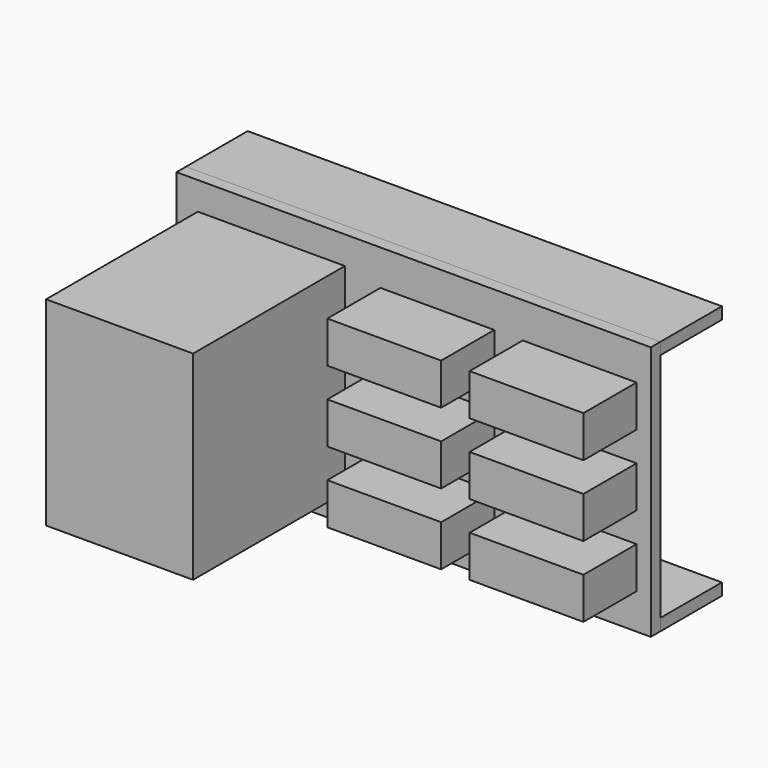
from build123d import *

# Parameters (mm, degrees)
F1_W     = 400
F1_H     = 10
F1_H_2   = 195
F2_DEPTH = 10
F3_DEPTH = 65
F4_W     = 124
F4_H     = 168
F5_DEPTH = 160
F4_W_2   = 96
F4_H_2   = 35
F6_DEPTH = 56


with BuildPart() as f2:
    # F1 (on Front) → F2 (new body)
    with BuildSketch(Plane.XZ):
        with Locations((0, -102.5)):
            Rectangle(F1_W, F1_H)
        Rectangle(F1_W, F1_H_2)
        with Locations((0, 102.5)):
            Rectangle(F1_W, F1_H)
    extrude(amount=F2_DEPTH)


with BuildPart() as f3:
    # F1 (on Front) → F3 (new body)
    with BuildSketch(Plane.XZ):
        with Locations((0, 102.5)):
            Rectangle(F1_W, F1_H)
        with Locations((0, -102.5)):
            Rectangle(F1_W, F1_H)
    extrude(amount=-F3_DEPTH)


with BuildPart() as f5:
    # F4 (on face) → F5 (new body)
    with BuildSketch(Plane.XZ.offset(10)):
        with Locations((-120, 0)):
            Rectangle(F4_W, F4_H)
    extrude(amount=F5_DEPTH)


with BuildPart() as f6:
    # F4 (on face) → F6 (new body)
    with BuildSketch(Plane.XZ.offset(10)):
        with Locations((20, 60)):
            Rectangle(F4_W_2, F4_H_2)
        with Locations((20, 0)):
            Rectangle(F4_W_2, F4_H_2)
        with Locations((20, -60)):
            Rectangle(F4_W_2, F4_H_2)
        with Locations((140, 60)):
            Rectangle(F4_W_2, F4_H_2)
        with Locations((140, 0)):
            Rectangle(F4_W_2, F4_H_2)
        with Locations((140, -60)):
            Rectangle(F4_W_2, F4_H_2)
    extrude(amount=F6_DEPTH)


solid = Compound([f2.part, f3.part, f5.part, f6.part])
